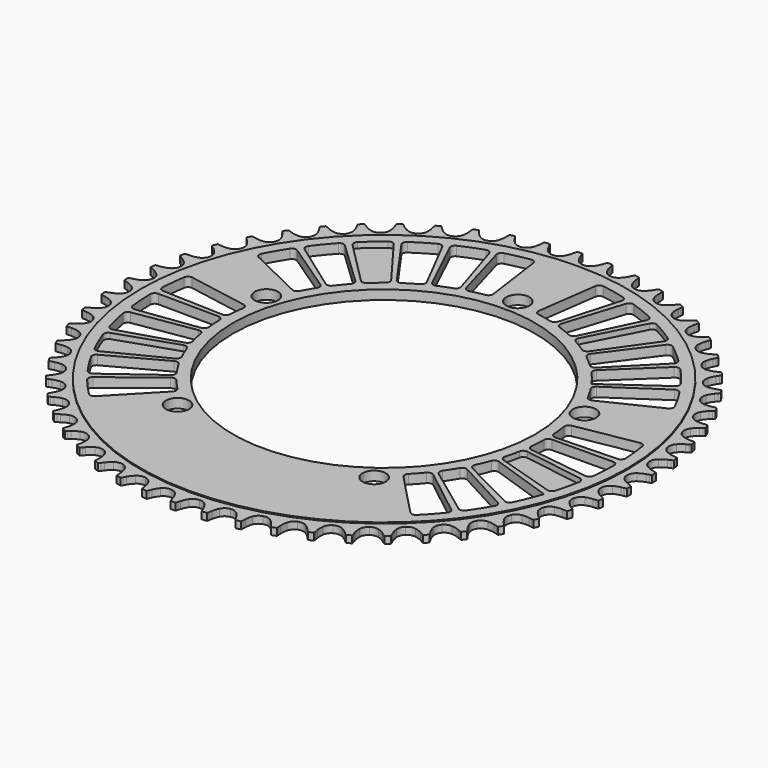
from build123d import *

# Parameters (mm, degrees)
F0_R     = 109.895735
F0_R_2   = 5.25
F0_R_3   = 68.249997
F1_DEPTH = 2.1125
F2_DEPTH = 1.6
F4_DEPTH = 4.5
F5_DEPTH = 2.5
F6_R     = 2


with BuildPart() as f1:
    # F0 (on Top) → F1 (new body, symmetric)
    with BuildSketch(Plane.XY):
        with Locations((0, 0.004698)):
            Circle(F0_R)
        with Locations((-44.436565, -61.156986)):
            Circle(F0_R_2, mode=Mode.SUBTRACT)
        with Locations((44.436565, -61.156986)):
            Circle(F0_R_2, mode=Mode.SUBTRACT)
        with Locations((-71.899873, 23.366383)):
            Circle(F0_R_2, mode=Mode.SUBTRACT)
        with Locations((0, 0.004698)):
            Circle(F0_R_3, mode=Mode.SUBTRACT)
        with Locations((71.899873, 23.366383)):
            Circle(F0_R_2, mode=Mode.SUBTRACT)
        with Locations((0, 75.604698)):
            Circle(F0_R_2, mode=Mode.SUBTRACT)
    extrude(amount=F1_DEPTH, both=True)

    # F0 (on Top) → F2 (join, symmetric)
    with BuildSketch(Plane.XY):
        with BuildLine():
            ThreePointArc((0, 112.516967), (-1.911019, 112.974961), (-3.406837, 114.249434))
            ThreePointArc((-3.406837, 114.249434), (-4.266442, 115.615925), (-4.915047, 117.09428))
            Line((-4.915047, 117.09428), (-5.320569, 118.264759))
            ThreePointArc((-5.320569, 118.264759), (-5.498865, 118.724167), (-5.710362, 119.169268))
            ThreePointArc((-5.710362, 119.169268), (-6.81077, 119.111441), (-7.910597, 119.043454))
            ThreePointArc((-7.910597, 119.043454), (-8.069977, 118.577146), (-8.194743, 118.100408))
            Line((-8.194743, 118.100408), (-8.464197, 116.891332))
            ThreePointArc((-8.464197, 116.891332), (-8.940054, 115.348679), (-9.638289, 113.893107))
            ThreePointArc((-9.638289, 113.893107), (-10.979077, 112.456431), (-12.825432, 111.783583))
            ThreePointArc((-12.825432, 111.783583), (-14.776202, 112.020751), (-16.407549, 113.116407))
            ThreePointArc((-16.407549, 113.116407), (-17.417319, 114.376003), (-18.230216, 115.770786))
            Line((-18.230216, 115.770786), (-18.76652, 116.88741))
            ThreePointArc((-18.76652, 116.88741), (-18.996022, 117.323499), (-19.256878, 117.741589))
            ThreePointArc((-19.256878, 117.741589), (-20.343521, 117.558703), (-21.428429, 117.365787))
            ThreePointArc((-21.428429, 117.365787), (-21.533615, 116.884351), (-21.603224, 116.396499))
            Line((-21.603224, 116.396499), (-21.733098, 115.164588))
            ThreePointArc((-21.733098, 115.164588), (-22.030003, 113.577747), (-22.557764, 112.05207))
            ThreePointArc((-22.557764, 112.05207), (-23.726044, 110.47192), (-25.483665, 109.592989))
            ThreePointArc((-25.483665, 109.592989), (-27.448755, 109.606241), (-29.194363, 110.508795))
            ThreePointArc((-29.194363, 110.508795), (-30.341135, 111.645076), (-31.307726, 112.938104))
            Line((-31.307726, 112.938104), (-31.967819, 113.986315))
            ThreePointArc((-31.967819, 113.986315), (-32.245536, 114.393401), (-32.55235, 114.77903))
            ThreePointArc((-32.55235, 114.77903), (-33.611063, 114.473468), (-34.666909, 114.15814))
            ThreePointArc((-34.666909, 114.15814), (-34.71653, 113.667851), (-34.730073, 113.175244))
            Line((-34.730073, 113.175244), (-34.718674, 111.936559))
            ThreePointArc((-34.718674, 111.936559), (-34.832758, 110.326216), (-35.183164, 108.750324))
            ThreePointArc((-35.183164, 108.750324), (-36.163705, 107.0473), (-37.80968, 105.973745))
            ThreePointArc((-37.80968, 105.973745), (-39.763471, 105.762907), (-41.600584, 106.460594))
            ThreePointArc((-41.600584, 106.460594), (-42.869407, 107.458746), (-43.977092, 108.633162))
            Line((-43.977092, 108.633162), (-44.75237, 109.599296))
            ThreePointArc((-44.75237, 109.599296), (-45.074681, 109.972071), (-45.423453, 110.320212))
            ThreePointArc((-45.423453, 110.320212), (-46.440434, 109.895958), (-47.453453, 109.462328))
            ThreePointArc((-47.453453, 109.462328), (-47.446862, 108.969579), (-47.404164, 108.478639))
            Line((-47.404164, 108.478639), (-47.251639, 107.249327))
            ThreePointArc((-47.251639, 107.249327), (-47.181414, 105.636476), (-47.349898, 104.030913))
            ThreePointArc((-47.349898, 104.030913), (-48.129918, 102.227216), (-49.642787, 100.973032))
            ThreePointArc((-49.642787, 100.973032), (-51.559809, 100.540852), (-53.464478, 101.024577))
            ThreePointArc((-53.464478, 101.024577), (-54.838812, 101.871588), (-56.073149, 102.912083))
            Line((-56.073149, 102.912083), (-56.953505, 103.783544))
            ThreePointArc((-56.953505, 103.783544), (-57.316208, 104.117148), (-57.702392, 104.423263))
            ThreePointArc((-57.702392, 104.423263), (-58.664382, 103.885847), (-59.621368, 103.339568))
            ThreePointArc((-59.621368, 103.339568), (-59.558651, 102.850782), (-59.460268, 102.367909))
            Line((-59.460268, 102.367909), (-59.168607, 101.163997))
            ThreePointArc((-59.168607, 101.163997), (-58.914989, 99.569664), (-58.899354, 97.955361))
            ThreePointArc((-58.899354, 97.955361), (-59.468683, 96.074506), (-60.828725, 94.656042))
            ThreePointArc((-60.828725, 94.656042), (-62.683987, 94.008156), (-64.631381, 94.271611))
            ThreePointArc((-64.631381, 94.271611), (-66.093308, 94.956439), (-67.438207, 95.849448))
            Line((-67.438207, 95.849448), (-68.412164, 96.614875))
            ThreePointArc((-68.412164, 96.614875), (-68.810531, 96.90496), (-69.229092, 97.165058))
            ThreePointArc((-69.229092, 97.165058), (-70.123551, 96.521486), (-71.012027, 95.86968))
            ThreePointArc((-71.012027, 95.86968), (-70.894002, 95.39123), (-70.741217, 94.922719))
            Line((-70.741217, 94.922719), (-70.314221, 93.759901))
            ThreePointArc((-70.314221, 93.759901), (-69.880516, 92.204871), (-69.680967, 90.602872))
            ThreePointArc((-69.680967, 90.602872), (-70.032184, 88.669378), (-71.221667, 87.105128))
            ThreePointArc((-71.221667, 87.105128), (-72.990983, 86.24998), (-74.955715, 86.289732))
            ThreePointArc((-74.955715, 86.289732), (-76.486177, 86.803449), (-77.924105, 87.53733))
            Line((-77.924105, 87.53733), (-78.978965, 88.186746))
            ThreePointArc((-78.978965, 88.186746), (-79.407803, 88.429529), (-79.853285, 88.64022))
            ThreePointArc((-79.853285, 88.64022), (-80.668552, 87.898882), (-81.476937, 87.150046))
            ThreePointArc((-81.476937, 87.150046), (-81.305141, 86.688168), (-81.099946, 86.240127))
            Line((-81.099946, 86.240127), (-80.543182, 85.133563))
            ThreePointArc((-80.543182, 85.133563), (-79.935044, 83.638107), (-79.554181, 82.069298))
            ThreePointArc((-79.554181, 82.069298), (-79.682707, 80.108371), (-80.686126, 78.418726))
            ThreePointArc((-80.686126, 78.418726), (-82.346429, 77.367466), (-84.302886, 77.182996))
            ThreePointArc((-84.302886, 77.182996), (-85.881932, 77.518904), (-87.394144, 78.084091))
            Line((-87.394144, 78.084091), (-88.516156, 78.609028))
            ThreePointArc((-88.516156, 78.609028), (-88.969873, 78.801345), (-89.436468, 78.959881))
            ThreePointArc((-89.436468, 78.959881), (-90.161915, 78.130442), (-90.879669, 77.294338))
            ThreePointArc((-90.879669, 77.294338), (-90.656343, 76.855054), (-90.401413, 76.433325))
            Line((-90.401413, 76.433325), (-89.72214, 75.39744))
            ThreePointArc((-89.72214, 75.39744), (-88.947496, 73.981054), (-88.390285, 72.465886))
            ThreePointArc((-88.390285, 72.465886), (-88.294445, 70.50309), (-89.098718, 68.710077))
            ThreePointArc((-89.098718, 68.710077), (-90.628364, 67.476409), (-92.551041, 67.070123))
            ThreePointArc((-92.551041, 67.070123), (-94.158084, 67.223844), (-95.724865, 67.612967))
            Line((-95.724865, 67.612967), (-96.899402, 68.006583))
            ThreePointArc((-96.899402, 68.006583), (-97.372084, 68.145926), (-97.85371, 68.250241))
            ThreePointArc((-97.85371, 68.250241), (-98.479879, 67.343514), (-99.097647, 66.431042))
            ThreePointArc((-99.097647, 66.431042), (-98.825702, 66.020079), (-98.52436, 65.630158))
            Line((-98.52436, 65.630158), (-97.731432, 64.678457))
            ThreePointArc((-97.731432, 64.678457), (-96.800382, 63.359606), (-96.074087, 61.917831))
            ThreePointArc((-96.074087, 61.917831), (-95.755129, 59.978755), (-96.349772, 58.105749))
            ThreePointArc((-96.349772, 58.105749), (-97.72882, 56.705756), (-99.592651, 56.082949))
            ThreePointArc((-99.592651, 56.082949), (-101.206742, 56.052479), (-102.807667, 56.260466))
            Line((-102.807667, 56.260466), (-104.019417, 56.517629))
            ThreePointArc((-104.019417, 56.517629), (-104.504902, 56.602183), (-104.99528, 56.650916))
            ThreePointArc((-104.99528, 56.650916), (-105.514008, 55.678722), (-106.023735, 54.701777))
            ThreePointArc((-106.023735, 54.701777), (-105.706716, 54.324492), (-105.362891, 53.971463))
            Line((-105.362891, 53.971463), (-104.466646, 53.116352))
            ThreePointArc((-104.466646, 53.116352), (-103.391327, 51.91223), (-102.505416, 50.562645))
            ThreePointArc((-102.505416, 50.562645), (-101.967499, 48.672566), (-102.34476, 46.743984))
            ThreePointArc((-102.34476, 46.743984), (-103.555231, 45.195917), (-105.335918, 44.364709))
            ThreePointArc((-105.335918, 44.364709), (-106.936015, 44.150445), (-108.550214, 44.174585))
            Line((-108.550214, 44.174585), (-109.78338, 44.291943))
            ThreePointArc((-109.78338, 44.291943), (-110.275339, 44.320604), (-110.768075, 44.313121))
            ThreePointArc((-110.768075, 44.313121), (-111.1726, 43.288133), (-111.567641, 42.259452))
            ThreePointArc((-111.567641, 42.259452), (-111.209681, 41.920764), (-110.827855, 41.609229))
            Line((-110.827855, 41.609229), (-109.839977, 40.861856))
            ThreePointArc((-109.839977, 40.861856), (-108.634408, 39.78816), (-107.60043, 38.548358))
            ThreePointArc((-107.60043, 38.548358), (-106.850567, 36.731917), (-107.005527, 34.772902))
            ThreePointArc((-107.005527, 34.772902), (-108.031642, 33.096942), (-109.705971, 32.068169))
            ThreePointArc((-109.705971, 32.068169), (-111.271214, 31.672905), (-112.877642, 31.512882))
            Line((-112.877642, 31.512882), (-114.116148, 31.488905))
            ThreePointArc((-114.116148, 31.488905), (-114.608167, 31.4613), (-115.096839, 31.397698))
            ThreePointArc((-115.096839, 31.397698), (-115.381888, 30.333279), (-115.657093, 29.266272))
            ThreePointArc((-115.657093, 29.266272), (-115.262859, 28.970595), (-114.848009, 28.704616))
            Line((-114.848009, 28.704616), (-113.781376, 28.074725))
            ThreePointArc((-113.781376, 28.074725), (-112.461273, 27.145452), (-111.292708, 26.031595))
            ThreePointArc((-111.292708, 26.031595), (-110.340674, 24.312472), (-110.271313, 22.348562))
            ThreePointArc((-110.271313, 22.348562), (-111.099694, 20.566559), (-112.645839, 19.353633))
            ThreePointArc((-112.645839, 19.353633), (-114.155822, 18.78252), (-115.733538, 18.440422))
            Line((-115.733538, 18.440422), (-116.961238, 18.275422))
            ThreePointArc((-116.961238, 18.275422), (-117.446903, 18.191911), (-117.92514, 18.07302))
            ThreePointArc((-117.92514, 18.07302), (-118.086995, 16.983045), (-118.238777, 15.891622))
            ThreePointArc((-118.238777, 15.891622), (-117.813408, 15.642812), (-117.370943, 15.425856))
            Line((-117.370943, 15.425856), (-116.23946, 14.921657))
            ThreePointArc((-116.23946, 14.921657), (-114.822033, 14.148922), (-113.534115, 13.175532))
            ThreePointArc((-113.534115, 13.175532), (-112.392322, 11.576139), (-112.099544, 9.632937))
            ThreePointArc((-112.099544, 9.632937), (-112.719393, 7.768121), (-114.117196, 6.386853))
            ThreePointArc((-114.117196, 6.386853), (-115.552235, 5.647338), (-117.080671, 5.127623))
            Line((-117.080671, 5.127623), (-118.281559, 4.823752))
            ThreePointArc((-118.281559, 4.823752), (-118.754539, 4.685424), (-119.216106, 4.512793))
            ThreePointArc((-119.216106, 4.512793), (-119.252659, 3.411473), (-119.279038, 2.309862))
            ThreePointArc((-119.279038, 2.309862), (-118.82808, 2.111162), (-118.363768, 1.946058))
            Line((-118.363768, 1.946058), (-117.182186, 1.574125))
            ThreePointArc((-117.182186, 1.574125), (-115.685913, 0.968001), (-114.295432, 0.147767))
            ThreePointArc((-114.295432, 0.147767), (-112.978764, -1.311046), (-112.466386, -3.208208))
            ThreePointArc((-112.466386, -3.208208), (-112.869621, -5.131526), (-114.10086, -6.663127))
            ThreePointArc((-114.10086, -6.663127), (-115.442247, -7.561404), (-116.901477, -8.25196))
            Line((-116.901477, -8.25196), (-118.059899, -8.690741))
            ThreePointArc((-118.059899, -8.690741), (-118.514028, -8.882084), (-118.952908, -9.106204))
            ThreePointArc((-118.952908, -9.106204), (-118.863681, -10.204512), (-118.764315, -11.301949))
            ThreePointArc((-118.764315, -11.301949), (-118.293646, -11.447949), (-117.81354, -11.559049))
            Line((-117.81354, -11.559049), (-116.597263, -11.793868))
            ThreePointArc((-116.597263, -11.793868), (-115.041649, -12.225478), (-113.566733, -12.881863))
            ThreePointArc((-113.566733, -12.881863), (-112.092354, -14.181078), (-111.367056, -16.007467))
            ThreePointArc((-111.367056, -16.007467), (-111.548422, -17.964214), (-112.597046, -19.626183))
            ThreePointArc((-112.597046, -19.626183), (-113.827293, -20.671511), (-115.198294, -21.523905))
            Line((-115.198294, -21.523905), (-116.299148, -22.091877))
            ThreePointArc((-116.299148, -22.091877), (-116.728506, -22.333738), (-117.138976, -22.606427))
            ThreePointArc((-117.138976, -22.606427), (-116.925134, -23.687405), (-116.701317, -24.766361))
            ThreePointArc((-116.701317, -24.766361), (-116.217073, -24.857757), (-115.727432, -24.913405))
            Line((-115.727432, -24.913405), (-114.492316, -25.008048))
            ThreePointArc((-114.492316, -25.008048), (-112.897642, -25.259519), (-111.357517, -25.743497))
            ThreePointArc((-111.357517, -25.743497), (-109.74465, -26.866177), (-108.815887, -28.597983))
            ThreePointArc((-108.815887, -28.597983), (-108.773018, -30.56265), (-109.625357, -32.333319))
            ThreePointArc((-109.625357, -32.333319), (-110.728427, -33.512071), (-111.993326, -34.515192))
            Line((-111.993326, -34.515192), (-113.02226, -35.204949))
            ThreePointArc((-113.02226, -35.204949), (-113.421248, -35.494178), (-113.797959, -35.811878))
            ThreePointArc((-113.797959, -35.811878), (-113.462289, -36.861434), (-113.116939, -37.907844))
            ThreePointArc((-113.116939, -37.907844), (-112.625433, -37.943445), (-112.13264, -37.942916))
            Line((-112.13264, -37.942916), (-110.894786, -37.896149))
            ThreePointArc((-110.894786, -37.896149), (-109.281842, -37.964201), (-107.696587, -38.269464))
            ThreePointArc((-107.696587, -38.269464), (-105.966256, -39.200973), (-104.846136, -40.81562))
            ThreePointArc((-104.846136, -40.81562), (-104.579591, -42.762593), (-105.224533, -44.618881))
            ThreePointArc((-105.224533, -44.618881), (-106.186046, -45.91569), (-107.328352, -47.056459))
            Line((-107.328352, -47.056459), (-108.271953, -47.85901))
            ThreePointArc((-108.271953, -47.85901), (-108.635372, -48.191835), (-108.973412, -48.550406))
            ThreePointArc((-108.973412, -48.550406), (-108.520289, -49.554857), (-108.057908, -50.55508))
            ThreePointArc((-108.057908, -50.55508), (-107.565549, -50.534421), (-107.076028, -50.477721))
            Line((-107.076028, -50.477721), (-105.851573, -50.290154))
            ThreePointArc((-105.851573, -50.290154), (-104.241386, -50.173901), (-102.631666, -50.296468))
            ThreePointArc((-102.631666, -50.296468), (-100.806431, -51.024663), (-99.509556, -52.501101))
            ThreePointArc((-99.509556, -52.501101), (-99.02281, -54.405), (-99.451947, -56.322705))
            ThreePointArc((-99.451947, -56.322705), (-100.259367, -57.720666), (-101.26419, -58.984212))
            Line((-101.26419, -58.984212), (-102.110156, -59.889094))
            ThreePointArc((-102.110156, -59.889094), (-102.433267, -60.261176), (-102.72823, -60.655944))
            ThreePointArc((-102.72823, -60.655944), (-102.163562, -61.602196), (-101.590178, -62.543191))
            ThreePointArc((-101.590178, -62.543191), (-101.103382, -62.466542), (-100.623516, -62.35441))
            Line((-100.623516, -62.35441), (-99.428424, -62.028489))
            ThreePointArc((-99.428424, -62.028489), (-97.841983, -61.729446), (-96.228785, -61.66772))
            ThreePointArc((-96.228785, -61.66772), (-94.332439, -62.183107), (-92.875716, -63.502089))
            ThreePointArc((-92.875716, -63.502089), (-92.175115, -65.338093), (-92.382853, -67.292216))
            ThreePointArc((-92.382853, -67.292216), (-93.025654, -68.773103), (-93.879894, -70.142955))
            Line((-93.879894, -70.142955), (-94.617197, -71.138371))
            ThreePointArc((-94.617197, -71.138371), (-94.895788, -71.54486), (-95.143828, -71.970678))
            ThreePointArc((-95.143828, -71.970678), (-94.474976, -72.846394), (-93.798064, -73.715895))
            ThreePointArc((-93.798064, -73.715895), (-93.323179, -73.584255), (-92.859223, -73.418154))
            Line((-92.859223, -73.418154), (-91.709072, -72.958126))
            ThreePointArc((-91.709072, -72.958126), (-90.167061, -72.480193), (-88.571414, -72.234978))
            ThreePointArc((-88.571414, -72.234978), (-86.628679, -72.530839), (-85.031099, -73.675169))
            ThreePointArc((-85.031099, -73.675169), (-84.125776, -75.419342), (-84.109407, -77.384409))
            ThreePointArc((-84.109407, -77.384409), (-84.57921, -78.928917), (-85.27173, -80.387215))
            Line((-85.27173, -80.387215), (-85.890759, -81.46019))
            ThreePointArc((-85.890759, -81.46019), (-86.121197, -81.895785), (-86.319081, -82.347102))
            ThreePointArc((-86.319081, -82.347102), (-85.554764, -83.140867), (-84.783149, -83.927538))
            ThreePointArc((-84.783149, -83.927538), (-84.326365, -83.742623), (-83.884367, -83.524718))
            Line((-83.884367, -83.524718), (-82.794153, -82.936582))
            ThreePointArc((-82.794153, -82.936582), (-81.316673, -82.285987), (-79.75938, -81.860481))
            ThreePointArc((-79.75938, -81.860481), (-77.795582, -81.932958), (-76.077972, -82.887719))
            ThreePointArc((-76.077972, -82.887719), (-74.979729, -84.517324), (-74.739466, -86.467716))
            ThreePointArc((-74.739466, -86.467716), (-75.030146, -88.05571), (-75.551919, -89.583444))
            Line((-75.551919, -89.583444), (-76.044603, -90.719989))
            ThreePointArc((-76.044603, -90.719989), (-76.223885, -91.179013), (-76.369032, -91.649945))
            ThreePointArc((-76.369032, -91.649945), (-75.519215, -92.35141), (-74.662956, -93.044996))
            ThreePointArc((-74.662956, -93.044996), (-74.230228, -92.809217), (-73.815951, -92.542348))
            Line((-73.815951, -92.542348), (-72.799885, -91.833771))
            ThreePointArc((-72.799885, -91.833771), (-71.406199, -91.018997), (-69.90756, -90.418746))
            ThreePointArc((-69.90756, -90.418746), (-67.948301, -90.266895), (-66.133052, -91.019639))
            ThreePointArc((-66.133052, -91.019639), (-64.856207, -92.513433), (-64.395182, -94.423723))
            ThreePointArc((-64.395182, -94.423723), (-64.50295, -96.034501), (-64.847173, -97.611755))
            Line((-64.847173, -97.611755), (-65.207089, -98.797053))
            ThreePointArc((-65.207089, -98.797053), (-65.332877, -99.273521), (-65.423396, -99.75793))
            ThreePointArc((-65.423396, -99.75793), (-64.499158, -100.357951), (-63.569417, -100.94941))
            ThreePointArc((-63.569417, -100.94941), (-63.166387, -100.66584), (-62.785231, -100.353486))
            Line((-62.785231, -100.353486), (-61.85656, -99.533705))
            ThreePointArc((-61.85656, -99.533705), (-60.564835, -98.565374), (-59.144388, -97.798203))
            ThreePointArc((-59.144388, -97.798203), (-57.21521, -97.424003), (-55.325987, -97.964918))
            ThreePointArc((-55.325987, -97.964918), (-53.887185, -99.303425), (-53.211408, -101.148711))
            ThreePointArc((-53.211408, -101.148711), (-53.134859, -102.761274), (-53.297045, -104.367486))
            Line((-53.297045, -104.367486), (-53.519501, -105.586085))
            ThreePointArc((-53.519501, -105.586085), (-53.590156, -106.073786), (-53.624867, -106.565356))
            ThreePointArc((-53.624867, -106.565356), (-52.638256, -107.05611), (-51.647154, -107.537732))
            ThreePointArc((-51.647154, -107.537732), (-51.279075, -107.210068), (-50.936009, -106.856302))
            Line((-50.936009, -106.856302), (-50.10684, -105.936004))
            ThreePointArc((-50.10684, -105.936004), (-48.933916, -104.826739), (-47.610178, -103.90265))
            ThreePointArc((-47.610178, -103.90265), (-45.736231, -103.31098), (-43.797663, -103.633014))
            ThreePointArc((-43.797663, -103.633014), (-42.215661, -104.798785), (-41.333943, -106.55501))
            ThreePointArc((-41.333943, -106.55501), (-41.074074, -108.148336), (-41.052108, -109.762565))
            Line((-41.052108, -109.762565), (-41.134204, -110.998579))
            ThreePointArc((-41.134204, -110.998579), (-41.148805, -111.491156), (-41.127255, -111.983478))
            ThreePointArc((-41.127255, -111.983478), (-40.091133, -112.358569), (-39.051591, -112.724073))
            ThreePointArc((-39.051591, -112.724073), (-38.723262, -112.356588), (-38.422758, -111.966021))
            Line((-38.422758, -111.966021), (-37.7039, -110.957204))
            ThreePointArc((-37.7039, -110.957204), (-36.665068, -109.721466), (-35.455297, -108.652506))
            ThreePointArc((-35.455297, -108.652506), (-33.66101, -107.851078), (-31.698369, -107.950033))
            ThreePointArc((-31.698369, -107.950033), (-29.993791, -108.927871), (-28.917626, -110.57214))
            ThreePointArc((-28.917626, -110.57214), (-28.477825, -112.125457), (-28.271995, -113.726661))
            Line((-28.271995, -113.726661), (-28.21266, -114.963977))
            ThreePointArc((-28.21266, -114.963977), (-28.171017, -115.455007), (-28.093487, -115.941663))
            ThreePointArc((-28.093487, -115.941663), (-27.021361, -116.1962), (-25.946931, -116.440823))
            ThreePointArc((-25.946931, -116.440823), (-25.662632, -116.038307), (-25.408608, -115.616031))
            Line((-25.408608, -115.616031), (-24.809432, -114.531845))
            ThreePointArc((-24.809432, -114.531845), (-23.918235, -113.185744), (-22.838202, -111.985849))
            ThreePointArc((-22.838202, -111.985849), (-21.146967, -110.985112), (-19.185839, -110.859697))
            ThreePointArc((-19.185839, -110.859697), (-17.380907, -111.636854), (-16.124323, -113.147732))
            ThreePointArc((-16.124323, -113.147732), (-15.510325, -114.640791), (-15.123312, -116.208094))
            Line((-15.123312, -116.208094), (-14.923321, -117.430581))
            ThreePointArc((-14.923321, -117.430581), (-14.825976, -117.913664), (-14.693476, -118.38831))
            ThreePointArc((-14.693476, -118.38831), (-13.599325, -118.518975), (-12.504013, -118.639528))
            ThreePointArc((-12.504013, -118.639528), (-12.267451, -118.207227), (-12.063218, -117.758748))
            Line((-12.063218, -117.758748), (-11.591536, -116.613328))
            ThreePointArc((-11.591536, -116.613328), (-10.859592, -115.174413), (-9.923377, -113.859224))
            ThreePointArc((-9.923377, -113.859224), (-8.35724, -112.672223), (-6.423192, -112.324075))
            ThreePointArc((-6.423192, -112.324075), (-4.541435, -112.890419), (-3.120816, -114.248208))
            ThreePointArc((-3.120816, -114.248208), (-2.340623, -115.661545), (-1.777474, -117.174516))
            Line((-1.777474, -117.174516), (-1.439434, -118.366238))
            ThreePointArc((-1.439434, -118.366238), (-1.287656, -118.835075), (-1.101915, -119.291523))
            ThreePointArc((-1.101915, -119.291523), (0, -119.296612), (1.101915, -119.291523))
            ThreePointArc((1.101915, -119.291523), (1.287656, -118.835075), (1.439434, -118.366238))
            Line((1.439434, -118.366238), (1.777474, -117.174516))
            ThreePointArc((1.777474, -117.174516), (2.340623, -115.661545), (3.120816, -114.248208))
            ThreePointArc((3.120816, -114.248208), (4.541435, -112.890419), (6.423192, -112.324075))
            ThreePointArc((6.423192, -112.324075), (8.35724, -112.672223), (9.923377, -113.859224))
            ThreePointArc((9.923377, -113.859224), (10.859592, -115.174413), (11.591536, -116.613328))
            Line((11.591536, -116.613328), (12.063218, -117.758748))
            ThreePointArc((12.063218, -117.758748), (12.267451, -118.207227), (12.504013, -118.639528))
            ThreePointArc((12.504013, -118.639528), (13.599325, -118.518975), (14.693476, -118.38831))
            ThreePointArc((14.693476, -118.38831), (14.825976, -117.913664), (14.923321, -117.430581))
            Line((14.923321, -117.430581), (15.123312, -116.208094))
            ThreePointArc((15.123312, -116.208094), (15.510325, -114.640791), (16.124323, -113.147732))
            ThreePointArc((16.124323, -113.147732), (17.380907, -111.636854), (19.185839, -110.859697))
            ThreePointArc((19.185839, -110.859697), (21.146967, -110.985112), (22.838202, -111.985849))
            ThreePointArc((22.838202, -111.985849), (23.918235, -113.185744), (24.809432, -114.531845))
            Line((24.809432, -114.531845), (25.408608, -115.616031))
            ThreePointArc((25.408608, -115.616031), (25.662632, -116.038307), (25.946931, -116.440823))
            ThreePointArc((25.946931, -116.440823), (27.021361, -116.1962), (28.093487, -115.941663))
            ThreePointArc((28.093487, -115.941663), (28.171017, -115.455007), (28.21266, -114.963977))
            Line((28.21266, -114.963977), (28.271995, -113.726661))
            ThreePointArc((28.271995, -113.726661), (28.477825, -112.125457), (28.917626, -110.57214))
            ThreePointArc((28.917626, -110.57214), (29.993791, -108.927871), (31.698369, -107.950033))
            ThreePointArc((31.698369, -107.950033), (33.66101, -107.851078), (35.455297, -108.652506))
            ThreePointArc((35.455297, -108.652506), (36.665068, -109.721466), (37.7039, -110.957204))
            Line((37.7039, -110.957204), (38.422758, -111.966021))
            ThreePointArc((38.422758, -111.966021), (38.723262, -112.356588), (39.051591, -112.724073))
            ThreePointArc((39.051591, -112.724073), (40.091133, -112.358569), (41.127255, -111.983478))
            ThreePointArc((41.127255, -111.983478), (41.148805, -111.491156), (41.134204, -110.998579))
            Line((41.134204, -110.998579), (41.052108, -109.762565))
            ThreePointArc((41.052108, -109.762565), (41.074074, -108.148336), (41.333943, -106.55501))
            ThreePointArc((41.333943, -106.55501), (42.215661, -104.798785), (43.797663, -103.633014))
            ThreePointArc((43.797663, -103.633014), (45.736231, -103.31098), (47.610178, -103.90265))
            ThreePointArc((47.610178, -103.90265), (48.933916, -104.826739), (50.10684, -105.936004))
            Line((50.10684, -105.936004), (50.936009, -106.856302))
            ThreePointArc((50.936009, -106.856302), (51.279075, -107.210068), (51.647154, -107.537732))
            ThreePointArc((51.647154, -107.537732), (52.638256, -107.05611), (53.624867, -106.565356))
            ThreePointArc((53.624867, -106.565356), (53.590156, -106.073786), (53.519501, -105.586085))
            Line((53.519501, -105.586085), (53.297045, -104.367486))
            ThreePointArc((53.297045, -104.367486), (53.134859, -102.761274), (53.211408, -101.148711))
            ThreePointArc((53.211408, -101.148711), (53.887185, -99.303425), (55.325987, -97.964918))
            ThreePointArc((55.325987, -97.964918), (57.21521, -97.424003), (59.144388, -97.798203))
            ThreePointArc((59.144388, -97.798203), (60.564835, -98.565374), (61.85656, -99.533705))
            Line((61.85656, -99.533705), (62.785231, -100.353486))
            ThreePointArc((62.785231, -100.353486), (63.166387, -100.66584), (63.569417, -100.94941))
            ThreePointArc((63.569417, -100.94941), (64.499158, -100.357951), (65.423396, -99.75793))
            ThreePointArc((65.423396, -99.75793), (65.332877, -99.273521), (65.207089, -98.797053))
            Line((65.207089, -98.797053), (64.847173, -97.611755))
            ThreePointArc((64.847173, -97.611755), (64.50295, -96.034501), (64.395182, -94.423723))
            ThreePointArc((64.395182, -94.423723), (64.856207, -92.513433), (66.133052, -91.019639))
            ThreePointArc((66.133052, -91.019639), (67.948301, -90.266895), (69.90756, -90.418746))
            ThreePointArc((69.90756, -90.418746), (71.406199, -91.018997), (72.799885, -91.833771))
            Line((72.799885, -91.833771), (73.815951, -92.542348))
            ThreePointArc((73.815951, -92.542348), (74.230228, -92.809217), (74.662956, -93.044996))
            ThreePointArc((74.662956, -93.044996), (75.519215, -92.35141), (76.369032, -91.649945))
            ThreePointArc((76.369032, -91.649945), (76.223885, -91.179013), (76.044603, -90.719989))
            Line((76.044603, -90.719989), (75.551919, -89.583444))
            ThreePointArc((75.551919, -89.583444), (75.030146, -88.05571), (74.739466, -86.467716))
            ThreePointArc((74.739466, -86.467716), (74.979729, -84.517324), (76.077972, -82.887719))
            ThreePointArc((76.077972, -82.887719), (77.795582, -81.932958), (79.75938, -81.860481))
            ThreePointArc((79.75938, -81.860481), (81.316673, -82.285987), (82.794153, -82.936582))
            Line((82.794153, -82.936582), (83.884367, -83.524718))
            ThreePointArc((83.884367, -83.524718), (84.326365, -83.742623), (84.783149, -83.927538))
            ThreePointArc((84.783149, -83.927538), (85.554764, -83.140867), (86.319081, -82.347102))
            ThreePointArc((86.319081, -82.347102), (86.121197, -81.895785), (85.890759, -81.46019))
            Line((85.890759, -81.46019), (85.27173, -80.387215))
            ThreePointArc((85.27173, -80.387215), (84.57921, -78.928917), (84.109407, -77.384409))
            ThreePointArc((84.109407, -77.384409), (84.125776, -75.419342), (85.031099, -73.675169))
            ThreePointArc((85.031099, -73.675169), (86.628679, -72.530839), (88.571414, -72.234978))
            ThreePointArc((88.571414, -72.234978), (90.167061, -72.480193), (91.709072, -72.958126))
            Line((91.709072, -72.958126), (92.859223, -73.418154))
            ThreePointArc((92.859223, -73.418154), (93.323179, -73.584255), (93.798064, -73.715895))
            ThreePointArc((93.798064, -73.715895), (94.474976, -72.846394), (95.143828, -71.970678))
            ThreePointArc((95.143828, -71.970678), (94.895788, -71.54486), (94.617197, -71.138371))
            Line((94.617197, -71.138371), (93.879894, -70.142955))
            ThreePointArc((93.879894, -70.142955), (93.025654, -68.773103), (92.382853, -67.292216))
            ThreePointArc((92.382853, -67.292216), (92.175115, -65.338093), (92.875716, -63.502089))
            ThreePointArc((92.875716, -63.502089), (94.332439, -62.183107), (96.228785, -61.66772))
            ThreePointArc((96.228785, -61.66772), (97.841983, -61.729446), (99.428424, -62.028489))
            Line((99.428424, -62.028489), (100.623516, -62.35441))
            ThreePointArc((100.623516, -62.35441), (101.103382, -62.466542), (101.590178, -62.543191))
            ThreePointArc((101.590178, -62.543191), (102.163562, -61.602196), (102.72823, -60.655944))
            ThreePointArc((102.72823, -60.655944), (102.433267, -60.261176), (102.110156, -59.889094))
            Line((102.110156, -59.889094), (101.26419, -58.984212))
            ThreePointArc((101.26419, -58.984212), (100.259367, -57.720666), (99.451947, -56.322705))
            ThreePointArc((99.451947, -56.322705), (99.02281, -54.405), (99.509556, -52.501101))
            ThreePointArc((99.509556, -52.501101), (100.806431, -51.024663), (102.631666, -50.296468))
            ThreePointArc((102.631666, -50.296468), (104.241386, -50.173901), (105.851573, -50.290154))
            Line((105.851573, -50.290154), (107.076028, -50.477721))
            ThreePointArc((107.076028, -50.477721), (107.565549, -50.534421), (108.057908, -50.55508))
            ThreePointArc((108.057908, -50.55508), (108.520289, -49.554857), (108.973412, -48.550406))
            ThreePointArc((108.973412, -48.550406), (108.635372, -48.191835), (108.271953, -47.85901))
            Line((108.271953, -47.85901), (107.328352, -47.056459))
            ThreePointArc((107.328352, -47.056459), (106.186046, -45.91569), (105.224533, -44.618881))
            ThreePointArc((105.224533, -44.618881), (104.579591, -42.762593), (104.846136, -40.81562))
            ThreePointArc((104.846136, -40.81562), (105.966256, -39.200973), (107.696587, -38.269464))
            ThreePointArc((107.696587, -38.269464), (109.281842, -37.964201), (110.894786, -37.896149))
            Line((110.894786, -37.896149), (112.13264, -37.942916))
            ThreePointArc((112.13264, -37.942916), (112.625433, -37.943445), (113.116939, -37.907844))
            ThreePointArc((113.116939, -37.907844), (113.462289, -36.861434), (113.797959, -35.811878))
            ThreePointArc((113.797959, -35.811878), (113.421248, -35.494178), (113.02226, -35.204949))
            Line((113.02226, -35.204949), (111.993326, -34.515192))
            ThreePointArc((111.993326, -34.515192), (110.728427, -33.512071), (109.625357, -32.333319))
            ThreePointArc((109.625357, -32.333319), (108.773018, -30.56265), (108.815887, -28.597983))
            ThreePointArc((108.815887, -28.597983), (109.74465, -26.866177), (111.357517, -25.743497))
            ThreePointArc((111.357517, -25.743497), (112.897642, -25.259519), (114.492316, -25.008048))
            Line((114.492316, -25.008048), (115.727432, -24.913405))
            ThreePointArc((115.727432, -24.913405), (116.217073, -24.857757), (116.701317, -24.766361))
            ThreePointArc((116.701317, -24.766361), (116.925134, -23.687405), (117.138976, -22.606427))
            ThreePointArc((117.138976, -22.606427), (116.728506, -22.333738), (116.299148, -22.091877))
            Line((116.299148, -22.091877), (115.198294, -21.523905))
            ThreePointArc((115.198294, -21.523905), (113.827293, -20.671511), (112.597046, -19.626183))
            ThreePointArc((112.597046, -19.626183), (111.548422, -17.964214), (111.367056, -16.007467))
            ThreePointArc((111.367056, -16.007467), (112.092354, -14.181078), (113.566733, -12.881863))
            ThreePointArc((113.566733, -12.881863), (115.041649, -12.225478), (116.597263, -11.793868))
            Line((116.597263, -11.793868), (117.81354, -11.559049))
            ThreePointArc((117.81354, -11.559049), (118.293646, -11.447949), (118.764315, -11.301949))
            ThreePointArc((118.764315, -11.301949), (118.863681, -10.204512), (118.952908, -9.106204))
            ThreePointArc((118.952908, -9.106204), (118.514028, -8.882084), (118.059899, -8.690741))
            Line((118.059899, -8.690741), (116.901477, -8.25196))
            ThreePointArc((116.901477, -8.25196), (115.442247, -7.561404), (114.10086, -6.663127))
            ThreePointArc((114.10086, -6.663127), (112.869621, -5.131526), (112.466386, -3.208208))
            ThreePointArc((112.466386, -3.208208), (112.978764, -1.311046), (114.295432, 0.147767))
            ThreePointArc((114.295432, 0.147767), (115.685913, 0.968001), (117.182186, 1.574125))
            Line((117.182186, 1.574125), (118.363768, 1.946058))
            ThreePointArc((118.363768, 1.946058), (118.82808, 2.111162), (119.279038, 2.309862))
            ThreePointArc((119.279038, 2.309862), (119.252659, 3.411473), (119.216106, 4.512793))
            ThreePointArc((119.216106, 4.512793), (118.754539, 4.685424), (118.281559, 4.823752))
            Line((118.281559, 4.823752), (117.080671, 5.127623))
            ThreePointArc((117.080671, 5.127623), (115.552235, 5.647338), (114.117196, 6.386853))
            ThreePointArc((114.117196, 6.386853), (112.719393, 7.768121), (112.099544, 9.632937))
            ThreePointArc((112.099544, 9.632937), (112.392322, 11.576139), (113.534115, 13.175532))
            ThreePointArc((113.534115, 13.175532), (114.822033, 14.148922), (116.23946, 14.921657))
            Line((116.23946, 14.921657), (117.370943, 15.425856))
            ThreePointArc((117.370943, 15.425856), (117.813408, 15.642812), (118.238777, 15.891622))
            ThreePointArc((118.238777, 15.891622), (118.086995, 16.983045), (117.92514, 18.07302))
            ThreePointArc((117.92514, 18.07302), (117.446903, 18.191911), (116.961238, 18.275422))
            Line((116.961238, 18.275422), (115.733538, 18.440422))
            ThreePointArc((115.733538, 18.440422), (114.155822, 18.78252), (112.645839, 19.353633))
            ThreePointArc((112.645839, 19.353633), (111.099694, 20.566559), (110.271313, 22.348562))
            ThreePointArc((110.271313, 22.348562), (110.340674, 24.312472), (111.292708, 26.031595))
            ThreePointArc((111.292708, 26.031595), (112.461273, 27.145452), (113.781376, 28.074725))
            Line((113.781376, 28.074725), (114.848009, 28.704616))
            ThreePointArc((114.848009, 28.704616), (115.262859, 28.970595), (115.657093, 29.266272))
            ThreePointArc((115.657093, 29.266272), (115.381888, 30.333279), (115.096839, 31.397698))
            ThreePointArc((115.096839, 31.397698), (114.608167, 31.4613), (114.116148, 31.488905))
            Line((114.116148, 31.488905), (112.877642, 31.512882))
            ThreePointArc((112.877642, 31.512882), (111.271214, 31.672905), (109.705971, 32.068169))
            ThreePointArc((109.705971, 32.068169), (108.031642, 33.096942), (107.005527, 34.772902))
            ThreePointArc((107.005527, 34.772902), (106.850567, 36.731917), (107.60043, 38.548358))
            ThreePointArc((107.60043, 38.548358), (108.634408, 39.78816), (109.839977, 40.861856))
            Line((109.839977, 40.861856), (110.827855, 41.609229))
            ThreePointArc((110.827855, 41.609229), (111.209681, 41.920764), (111.567641, 42.259452))
            ThreePointArc((111.567641, 42.259452), (111.1726, 43.288133), (110.768075, 44.313121))
            ThreePointArc((110.768075, 44.313121), (110.275339, 44.320604), (109.78338, 44.291943))
            Line((109.78338, 44.291943), (108.550214, 44.174585))
            ThreePointArc((108.550214, 44.174585), (106.936015, 44.150445), (105.335918, 44.364709))
            ThreePointArc((105.335918, 44.364709), (103.555231, 45.195917), (102.34476, 46.743984))
            ThreePointArc((102.34476, 46.743984), (101.967499, 48.672566), (102.505416, 50.562645))
            ThreePointArc((102.505416, 50.562645), (103.391327, 51.91223), (104.466646, 53.116352))
            Line((104.466646, 53.116352), (105.362891, 53.971463))
            ThreePointArc((105.362891, 53.971463), (105.706716, 54.324492), (106.023735, 54.701777))
            ThreePointArc((106.023735, 54.701777), (105.514008, 55.678722), (104.99528, 56.650916))
            ThreePointArc((104.99528, 56.650916), (104.504902, 56.602183), (104.019417, 56.517629))
            Line((104.019417, 56.517629), (102.807667, 56.260466))
            ThreePointArc((102.807667, 56.260466), (101.206742, 56.052479), (99.592651, 56.082949))
            ThreePointArc((99.592651, 56.082949), (97.72882, 56.705756), (96.349772, 58.105749))
            ThreePointArc((96.349772, 58.105749), (95.755129, 59.978755), (96.074087, 61.917831))
            ThreePointArc((96.074087, 61.917831), (96.800382, 63.359606), (97.731432, 64.678457))
            Line((97.731432, 64.678457), (98.52436, 65.630158))
            ThreePointArc((98.52436, 65.630158), (98.825702, 66.020079), (99.097647, 66.431042))
            ThreePointArc((99.097647, 66.431042), (98.479879, 67.343514), (97.85371, 68.250241))
            ThreePointArc((97.85371, 68.250241), (97.372084, 68.145926), (96.899402, 68.006583))
            Line((96.899402, 68.006583), (95.724865, 67.612967))
            ThreePointArc((95.724865, 67.612967), (94.158084, 67.223844), (92.551041, 67.070123))
            ThreePointArc((92.551041, 67.070123), (90.628364, 67.476409), (89.098718, 68.710077))
            ThreePointArc((89.098718, 68.710077), (88.294445, 70.50309), (88.390285, 72.465886))
            ThreePointArc((88.390285, 72.465886), (88.947496, 73.981054), (89.72214, 75.39744))
            Line((89.72214, 75.39744), (90.401413, 76.433325))
            ThreePointArc((90.401413, 76.433325), (90.656343, 76.855054), (90.879669, 77.294338))
            ThreePointArc((90.879669, 77.294338), (90.161915, 78.130442), (89.436468, 78.959881))
            ThreePointArc((89.436468, 78.959881), (88.969873, 78.801345), (88.516156, 78.609028))
            Line((88.516156, 78.609028), (87.394144, 78.084091))
            ThreePointArc((87.394144, 78.084091), (85.881932, 77.518904), (84.302886, 77.182996))
            ThreePointArc((84.302886, 77.182996), (82.346429, 77.367466), (80.686126, 78.418726))
            ThreePointArc((80.686126, 78.418726), (79.682707, 80.108371), (79.554181, 82.069298))
            ThreePointArc((79.554181, 82.069298), (79.935044, 83.638107), (80.543182, 85.133563))
            Line((80.543182, 85.133563), (81.099946, 86.240127))
            ThreePointArc((81.099946, 86.240127), (81.305141, 86.688168), (81.476937, 87.150046))
            ThreePointArc((81.476937, 87.150046), (80.668552, 87.898882), (79.853285, 88.64022))
            ThreePointArc((79.853285, 88.64022), (79.407803, 88.429529), (78.978965, 88.186746))
            Line((78.978965, 88.186746), (77.924105, 87.53733))
            ThreePointArc((77.924105, 87.53733), (76.486177, 86.803449), (74.955715, 86.289732))
            ThreePointArc((74.955715, 86.289732), (72.990983, 86.24998), (71.221667, 87.105128))
            ThreePointArc((71.221667, 87.105128), (70.032184, 88.669378), (69.680967, 90.602872))
            ThreePointArc((69.680967, 90.602872), (69.880516, 92.204871), (70.314221, 93.759901))
            Line((70.314221, 93.759901), (70.741217, 94.922719))
            ThreePointArc((70.741217, 94.922719), (70.894002, 95.39123), (71.012027, 95.86968))
            ThreePointArc((71.012027, 95.86968), (70.123551, 96.521486), (69.229092, 97.165058))
            ThreePointArc((69.229092, 97.165058), (68.810531, 96.90496), (68.412164, 96.614875))
            Line((68.412164, 96.614875), (67.438207, 95.849448))
            ThreePointArc((67.438207, 95.849448), (66.093308, 94.956439), (64.631381, 94.271611))
            ThreePointArc((64.631381, 94.271611), (62.683987, 94.008156), (60.828725, 94.656042))
            ThreePointArc((60.828725, 94.656042), (59.468683, 96.074506), (58.899354, 97.955361))
            ThreePointArc((58.899354, 97.955361), (58.914989, 99.569664), (59.168607, 101.163997))
            Line((59.168607, 101.163997), (59.460268, 102.367909))
            ThreePointArc((59.460268, 102.367909), (59.558651, 102.850782), (59.621368, 103.339568))
            ThreePointArc((59.621368, 103.339568), (58.664382, 103.885847), (57.702392, 104.423263))
            ThreePointArc((57.702392, 104.423263), (57.316208, 104.117148), (56.953505, 103.783544))
            Line((56.953505, 103.783544), (56.073149, 102.912083))
            ThreePointArc((56.073149, 102.912083), (54.838812, 101.871588), (53.464478, 101.024577))
            ThreePointArc((53.464478, 101.024577), (51.559809, 100.540852), (49.642787, 100.973032))
            ThreePointArc((49.642787, 100.973032), (48.129918, 102.227216), (47.349898, 104.030913))
            ThreePointArc((47.349898, 104.030913), (47.181414, 105.636476), (47.251639, 107.249327))
            Line((47.251639, 107.249327), (47.404164, 108.478639))
            ThreePointArc((47.404164, 108.478639), (47.446862, 108.969579), (47.453453, 109.462328))
            ThreePointArc((47.453453, 109.462328), (46.440434, 109.895958), (45.423453, 110.320212))
            ThreePointArc((45.423453, 110.320212), (45.074681, 109.972071), (44.75237, 109.599296))
            Line((44.75237, 109.599296), (43.977092, 108.633162))
            ThreePointArc((43.977092, 108.633162), (42.869407, 107.458746), (41.600584, 106.460594))
            ThreePointArc((41.600584, 106.460594), (39.763471, 105.762907), (37.80968, 105.973745))
            ThreePointArc((37.80968, 105.973745), (36.163705, 107.0473), (35.183164, 108.750324))
            ThreePointArc((35.183164, 108.750324), (34.832758, 110.326216), (34.718674, 111.936559))
            Line((34.718674, 111.936559), (34.730073, 113.175244))
            ThreePointArc((34.730073, 113.175244), (34.71653, 113.667851), (34.666909, 114.15814))
            ThreePointArc((34.666909, 114.15814), (33.611063, 114.473468), (32.55235, 114.77903))
            ThreePointArc((32.55235, 114.77903), (32.245536, 114.393401), (31.967819, 113.986315))
            Line((31.967819, 113.986315), (31.307726, 112.938104))
            ThreePointArc((31.307726, 112.938104), (30.341135, 111.645076), (29.194363, 110.508795))
            ThreePointArc((29.194363, 110.508795), (27.448755, 109.606241), (25.483665, 109.592989))
            ThreePointArc((25.483665, 109.592989), (23.726044, 110.47192), (22.557764, 112.05207))
            ThreePointArc((22.557764, 112.05207), (22.030003, 113.577747), (21.733098, 115.164588))
            Line((21.733098, 115.164588), (21.603224, 116.396499))
            ThreePointArc((21.603224, 116.396499), (21.533615, 116.884351), (21.428429, 117.365787))
            ThreePointArc((21.428429, 117.365787), (20.343521, 117.558703), (19.256878, 117.741589))
            ThreePointArc((19.256878, 117.741589), (18.996022, 117.323499), (18.76652, 116.88741))
            Line((18.76652, 116.88741), (18.230216, 115.770786))
            ThreePointArc((18.230216, 115.770786), (17.417319, 114.376003), (16.407549, 113.116407))
            ThreePointArc((16.407549, 113.116407), (14.776202, 112.020751), (12.825432, 111.783583))
            ThreePointArc((12.825432, 111.783583), (10.979077, 112.456431), (9.638289, 113.893107))
            ThreePointArc((9.638289, 113.893107), (8.940054, 115.348679), (8.464197, 116.891332))
            Line((8.464197, 116.891332), (8.194743, 118.100408))
            ThreePointArc((8.194743, 118.100408), (8.069977, 118.577146), (7.910597, 119.043454))
            ThreePointArc((7.910597, 119.043454), (6.81077, 119.111441), (5.710362, 119.169268))
            ThreePointArc((5.710362, 119.169268), (5.498865, 118.724167), (5.320569, 118.264759))
            Line((5.320569, 118.264759), (4.915047, 117.09428))
            ThreePointArc((4.915047, 117.09428), (4.266442, 115.615925), (3.406837, 114.249434))
            ThreePointArc((3.406837, 114.249434), (1.911019, 112.974961), (0, 112.516967))
        make_face()
        with Locations((0, 0.004698)):
            Circle(F0_R, mode=Mode.SUBTRACT)
    extrude(amount=F2_DEPTH, both=True)

    # F3 (on face) → F4 (cut)
    with BuildSketch(Plane.XY.offset(2.1125)):
        with BuildLine():
            ThreePointArc((-50.797712, -52.87903), (-54.419401, -49.143954), (-57.767126, -45.161472))
            Line((-57.767126, -45.161472), (-82.572216, -64.553719))
            ThreePointArc((-82.572216, -64.553719), (-77.786984, -70.24627), (-72.61015, -75.585181))
            Line((-72.61015, -75.585181), (-50.797712, -52.87903))
        make_face()
        with BuildLine():
            ThreePointArc((-58.92952, -43.633829), (-61.87518, -39.345413), (-64.509341, -34.85892))
            Line((-64.509341, -34.85892), (-92.209525, -49.827272))
            ThreePointArc((-92.209525, -49.827272), (-88.44426, -56.240256), (-84.23374, -62.370109))
            Line((-84.23374, -62.370109), (-58.92952, -43.633829))
        make_face()
        with BuildLine():
            ThreePointArc((-70.026034, -21.747503), (-71.391844, -16.727345), (-72.398245, -11.622976))
            Line((-72.398245, -11.622976), (-103.485908, -16.613859))
            ThreePointArc((-103.485908, -16.613859), (-102.04736, -23.910034), (-100.095075, -31.085838))
            Line((-100.095075, -31.085838), (-70.026034, -21.747503))
        make_face()
        with BuildLine():
            Line((-73.322374, 0.654891), (-104.806856, 0.9361))
            ThreePointArc((-104.806856, 0.9361), (-104.609419, -6.497916), (-103.885346, -13.89922))
            Line((-103.885346, -13.89922), (-72.67769, -9.723828))
            ThreePointArc((-72.67769, -9.723828), (-73.184247, -4.545911), (-73.322374, 0.654891))
        make_face()
        with BuildLine():
            Line((-72.179086, 12.914293), (-103.172643, 18.459665))
            ThreePointArc((-103.172643, 18.459665), (-104.221882, 11.097418), (-104.746437, 3.679303))
            Line((-104.746437, 3.679303), (-73.280105, 2.574023))
            ThreePointArc((-73.280105, 2.574023), (-72.913129, 7.7637), (-72.179086, 12.914293))
        make_face()
        with BuildLine():
            ThreePointArc((-65.988302, 31.970976), (-63.555197, 36.569609), (-60.802136, 40.984139))
            Line((-60.802136, 40.984139), (-86.910453, 58.582648))
            ThreePointArc((-86.910453, 58.582648), (-90.845673, 52.272527), (-94.323549, 45.699251))
            Line((-94.323549, 45.699251), (-65.988302, 31.970976))
        make_face()
        with BuildLine():
            ThreePointArc((-59.708461, 42.561709), (-56.540193, 46.688392), (-53.087286, 50.58003))
            Line((-53.087286, 50.58003), (-75.882861, 72.298996))
            ThreePointArc((-75.882861, 72.298996), (-80.818441, 66.736295), (-85.347156, 60.837623))
            Line((-85.347156, 60.837623), (-59.708461, 42.561709))
        make_face()
        with BuildLine():
            ThreePointArc((-42.322339, 59.878368), (-37.969943, 62.728644), (-33.426395, 65.263125))
            Line((-33.426395, 65.263125), (-47.779623, 93.286982))
            ThreePointArc((-47.779623, 93.286982), (-54.274162, 89.6642), (-60.495468, 85.590022))
            Line((-60.495468, 85.590022), (-42.322339, 59.878368))
        make_face()
        with BuildLine():
            Line((-22.035021, 69.936094), (-31.496815, 99.966515))
            ThreePointArc((-31.496815, 99.966515), (-38.505974, 97.481503), (-45.321282, 94.50574))
            Line((-45.321282, 94.50574), (-31.706551, 66.115762))
            ThreePointArc((-31.706551, 66.115762), (-26.938595, 68.197592), (-22.035021, 69.936094))
        make_face()
        with BuildLine():
            Line((-10.022342, 72.637126), (-14.325915, 103.827364))
            ThreePointArc((-14.325915, 103.827364), (-21.652061, 102.550191), (-28.869204, 100.756749))
            Line((-28.869204, 100.756749), (-20.196757, 70.488938))
            ThreePointArc((-20.196757, 70.488938), (-15.147678, 71.743622), (-10.022342, 72.637126))
        make_face()
        with BuildLine():
            ThreePointArc((10.014699, 72.63818), (15.140129, 71.745215), (20.189339, 70.491063))
            Line((20.189339, 70.491063), (28.858602, 100.759786))
            ThreePointArc((28.858602, 100.759786), (21.64127, 102.552469), (14.31499, 103.828871))
            Line((14.31499, 103.828871), (10.014699, 72.63818))
        make_face()
        with BuildLine():
            ThreePointArc((22.027662, 69.938412), (26.931418, 68.200426), (31.699594, 66.119098))
            Line((31.699594, 66.119098), (45.311337, 94.510508))
            ThreePointArc((45.311337, 94.510508), (38.495716, 97.485554), (31.486297, 99.969828))
            Line((31.486297, 99.969828), (22.027662, 69.938412))
        make_face()
        with BuildLine():
            ThreePointArc((43.86939, 58.75437), (47.925128, 55.495779), (51.739596, 51.957805))
            Line((51.739596, 51.957805), (73.956477, 74.268385))
            ThreePointArc((73.956477, 74.268385), (68.504084, 79.325557), (62.70682, 83.98338))
            Line((62.70682, 83.98338), (43.86939, 58.75437))
        make_face()
        with BuildLine():
            Line((59.703982, 42.567992), (85.340754, 60.846603))
            ThreePointArc((85.340754, 60.846603), (80.811418, 66.744798), (75.875254, 72.30698))
            Line((75.875254, 72.30698), (53.081963, 50.585616))
            ThreePointArc((53.081963, 50.585616), (56.53528, 46.694341), (59.703982, 42.567992))
        make_face()
        with BuildLine():
            Line((65.984938, 31.97792), (94.31874, 45.709175))
            ThreePointArc((94.31874, 45.709175), (90.840173, 52.282086), (86.904288, 58.591792))
            Line((86.904288, 58.591792), (60.797823, 40.990537))
            ThreePointArc((60.797823, 40.990537), (63.551349, 36.576296), (65.984938, 31.97792))
        make_face()
        with BuildLine():
            Line((103.1707, 18.470521), (72.177726, 12.921888))
            ThreePointArc((72.177726, 12.921888), (72.912311, 7.771372), (73.279834, 2.581734))
            Line((73.279834, 2.581734), (104.74605, 3.690325))
            ThreePointArc((104.74605, 3.690325), (104.220714, 11.108384), (103.1707, 18.470521))
        make_face()
        with BuildLine():
            Line((104.806757, 0.947128), (73.322305, 0.662606))
            ThreePointArc((73.322305, 0.662606), (73.184725, -4.53821), (72.678712, -9.716181))
            Line((72.678712, -9.716181), (103.886808, -13.888289))
            ThreePointArc((103.886808, -13.888289), (104.610102, -6.486909), (104.806757, 0.947128))
        make_face()
        with BuildLine():
            Line((99.250414, -33.685438), (69.435113, -23.566171))
            ThreePointArc((69.435113, -23.566171), (67.589301, -28.430367), (65.403224, -33.151435))
            Line((65.403224, -33.151435), (93.487239, -47.386596))
            ThreePointArc((93.487239, -47.386596), (96.612014, -40.63831), (99.250414, -33.685438))
        make_face()
        with BuildLine():
            Line((92.214767, -49.817569), (64.513009, -34.852132))
            ThreePointArc((64.513009, -34.852132), (61.879319, -39.338902), (58.934111, -43.627628))
            Line((58.934111, -43.627628), (84.240302, -62.361246))
            ThreePointArc((84.240302, -62.361246), (88.450177, -56.230949), (92.214767, -49.817569))
        make_face()
        with BuildLine():
            ThreePointArc((57.771878, -45.155393), (54.424572, -49.138227), (50.803276, -52.873685))
            Line((50.803276, -52.873685), (72.618103, -75.57754))
            ThreePointArc((72.618103, -75.57754), (77.794375, -70.238085), (82.579008, -64.54503))
            Line((82.579008, -64.54503), (57.771878, -45.155393))
        make_face()
    extrude(amount=-F4_DEPTH, mode=Mode.SUBTRACT)

    # F3 (on face) → F5 (cut)
    with BuildSketch(Plane.XY.offset(2.1125)):
        with BuildLine():
            ThreePointArc((-65.399906, -33.15798), (-67.586456, -28.43713), (-69.432755, -23.573119))
            Line((-69.432755, -23.573119), (-99.247043, -33.695369))
            ThreePointArc((-99.247043, -33.695369), (-96.607947, -40.647977), (-93.482497, -47.395951))
            Line((-93.482497, -47.395951), (-65.399906, -33.15798))
        make_face()
        with BuildLine():
            ThreePointArc((-51.744795, 51.952628), (-47.930681, 55.490983), (-43.875269, 58.74998))
            Line((-43.875269, 58.74998), (-62.715223, 83.977105))
            ThreePointArc((-62.715223, 83.977105), (-68.512021, 79.318702), (-73.963908, 74.260984))
            Line((-73.963908, 74.260984), (-51.744795, 51.952628))
        make_face()
        with BuildLine():
            ThreePointArc((33.419864, 65.26647), (37.963666, 62.732443), (42.316347, 59.882603))
            Line((42.316347, 59.882603), (60.486903, 85.596074))
            ThreePointArc((60.486903, 85.596074), (54.265189, 89.669631), (47.770288, 93.291763))
            Line((47.770288, 93.291763), (33.419864, 65.26647))
        make_face()
        with BuildLine():
            ThreePointArc((72.399407, -11.615731), (71.393517, -16.720201), (70.02821, -21.740496))
            Line((70.02821, -21.740496), (100.098185, -31.075822))
            ThreePointArc((100.098185, -31.075822), (102.049752, -23.899822), (103.48757, -16.603504))
            Line((103.48757, -16.603504), (72.399407, -11.615731))
        make_face()
    extrude(amount=-F5_DEPTH, mode=Mode.SUBTRACT)

    # F6
    f6_edges = [f1.edges().sort_by_distance(p)[0] for p in [
        (-72.61015, -75.585181, 0),
        (-84.23374, -62.370109, 0),
        (-93.482497, -47.395951, 0.8625),
        (-100.095075, -31.085838, 0),
        (-103.885346, -13.89922, 0),
        (-104.746437, 3.679303, 0),
        (-103.172643, 18.459665, 0),
        (-104.806856, 0.9361, 0),
        (-103.485908, -16.613859, 0),
        (-99.247043, -33.695369, 0.8625),
        (-92.209525, -49.827272, 0),
        (-82.572216, -64.553719, 0),
        (-72.179086, 12.914293, 0),
        (-73.322374, 0.654891, 0),
        (-72.398245, -11.622976, 0),
        (-69.432755, -23.573119, 0.8625),
        (-64.509341, -34.85892, 0),
        (-57.767126, -45.161472, 0),
        (-50.797712, -52.87903, 0),
        (-58.92952, -43.633829, 0),
        (-65.399906, -33.15798, 0.8625),
        (-70.026034, -21.747503, 0),
        (-72.67769, -9.723828, 0),
        (-73.280105, 2.574023, 0),
        (-65.988302, 31.970976, 0),
        (-59.708461, 42.561709, 0),
        (-51.744795, 51.952628, 0.8625),
        (-42.322339, 59.878368, 0),
        (-31.706551, 66.115762, 0),
        (-20.196757, 70.488938, 0),
        (-10.022342, 72.637126, 0),
        (-22.035021, 69.936094, 0),
        (-33.426395, 65.263125, 0),
        (-43.875269, 58.74998, 0.8625),
        (-53.087286, 50.58003, 0),
        (-60.802136, 40.984139, 0),
        (-94.323549, 45.699251, 0),
        (-85.347156, 60.837623, 0),
        (-73.963908, 74.260984, 0.8625),
        (-60.495468, 85.590022, 0),
        (-45.321282, 94.50574, 0),
        (-28.869204, 100.756749, 0),
        (-47.779623, 93.286982, 0),
        (-62.715223, 83.977105, 0.8625),
        (-75.882861, 72.298996, 0),
        (-86.910453, 58.582648, 0),
        (-31.496815, 99.966515, 0),
        (-14.325915, 103.827364, 0),
        (28.858602, 100.759786, 0),
        (45.311337, 94.510508, 0),
        (60.486903, 85.596074, 0.8625),
        (73.956477, 74.268385, 0),
        (85.340754, 60.846603, 0),
        (94.31874, 45.709175, 0),
        (86.904288, 58.591792, 0),
        (75.875254, 72.30698, 0),
        (62.70682, 83.98338, 0),
        (47.770288, 93.291763, 0.8625),
        (31.486297, 99.969828, 0),
        (14.31499, 103.828871, 0),
        (10.014699, 72.63818, 0),
        (22.027662, 69.938412, 0),
        (33.419864, 65.26647, 0.8625),
        (43.86939, 58.75437, 0),
        (53.081963, 50.585616, 0),
        (60.797823, 40.990537, 0),
        (20.189339, 70.491063, 0),
        (31.699594, 66.119098, 0),
        (42.316347, 59.882603, 0.8625),
        (51.739596, 51.957805, 0),
        (65.984938, 31.97792, 0),
        (72.177726, 12.921888, 0),
        (73.322305, 0.662606, 0),
        (72.399407, -11.615731, 0.8625),
        (69.435113, -23.566171, 0),
        (64.513009, -34.852132, 0),
        (57.771878, -45.155393, 0),
        (73.279834, 2.581734, 0),
        (72.678712, -9.716181, 0),
        (70.02821, -21.740496, 0.8625),
        (65.403224, -33.151435, 0),
        (58.934111, -43.627628, 0),
        (50.803276, -52.873685, 0),
        (103.1707, 18.470521, 0),
        (104.806757, 0.947128, 0),
        (103.48757, -16.603504, 0.8625),
        (92.214767, -49.817569, 0),
        (82.579008, -64.54503, 0),
        (104.74605, 3.690325, 0),
        (103.886808, -13.888289, 0),
        (100.098185, -31.075822, 0.8625),
        (93.487239, -47.386596, 0),
        (84.240302, -62.361246, 0),
        (72.618103, -75.57754, 0),
    ]]
    fillet(f6_edges, radius=F6_R)


solid = f1.part
